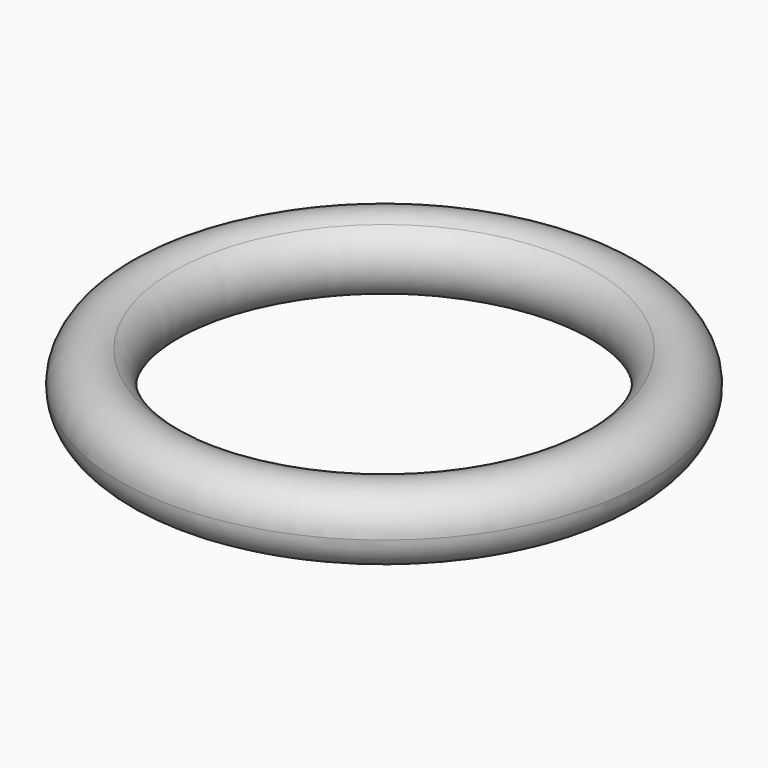
from build123d import *


with BuildPart() as f1:
    # F0 (on Front) → F1 (revolve)
    with BuildSketch(Plane.XZ):
        with BuildLine():
            ThreePointArc((3, 0.433013), (3, -0.433013), (3.75, 0))
            ThreePointArc((3.75, 0), (3.5, 0.433013), (3, 0.433013))
        make_face()
    revolve(axis=Axis((0, 0, 1.313016), (0, 0, 1)))


solid = f1.part
